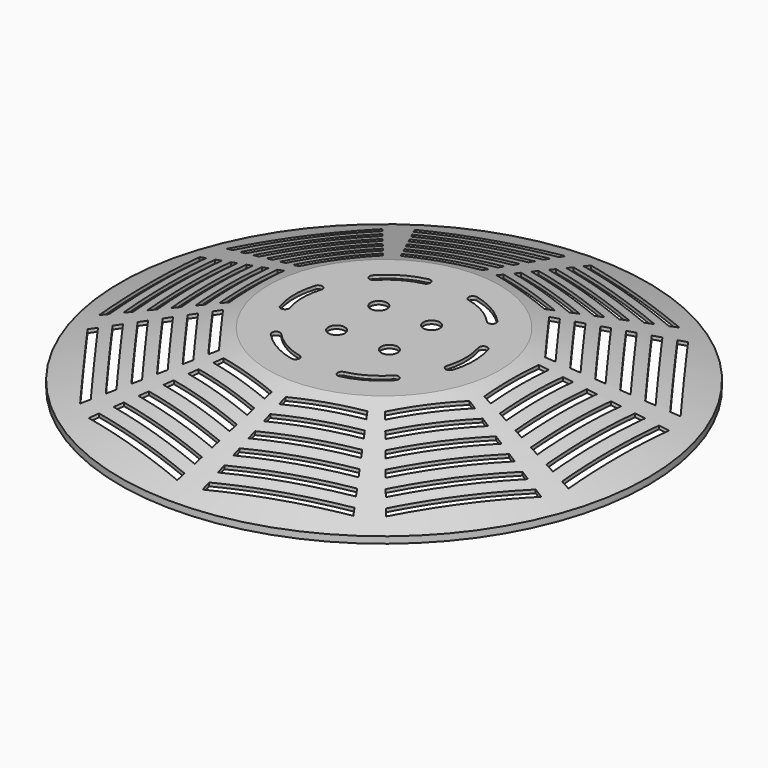
from build123d import *

# Parameters (mm, degrees)
F3_T      = -1.27
F4_DEPTH  = 20.321
F5_COUNT  = 6
F8_DEPTH  = 25.4
F9_COUNT  = 10
F11_R     = 3.175
F12_DEPTH = 20.321


with BuildPart() as f1:
    # F0 (on Front) → F1 (revolve)
    with BuildSketch(Plane.XZ):
        Polygon((0, 20.32), (0, 0), (101.6, 0), (101.6, 2.54), (44.45, 20.32), align=None)
    revolve(axis=Axis((0, 0, 10.16), (0, 0, 1)))

    # F3
    f3_openings = [f1.faces().sort_by_distance(p)[0] for p in [
        (0, 0, 0),
    ]]
    offset(amount=F3_T, openings=f3_openings)


with BuildPart() as f4:
    # F2 (on face) → F4 (new body, through all)
    with BuildSketch(Plane.XY.offset(20.32)):
        with BuildLine():
            ThreePointArc((-30.233871, -7.530353), (-31.375804, 0), (-30.233871, 7.530353))
            ThreePointArc((-30.233871, 7.530353), (-31.279353, 9.517129), (-33.266129, 8.471647))
            ThreePointArc((-33.266129, 8.471647), (-34.550804, 0), (-33.266129, -8.471647))
            ThreePointArc((-33.266129, -8.471647), (-31.279353, -9.517129), (-30.233871, -7.530353))
        make_face()
    extrude(amount=-F4_DEPTH)


with BuildPart() as f5_1:
    # F5: instance of F4
    add(f4.part.rotate(Axis((0, 0, 2.54), (0, 0, 1)), 1 * 360 / F5_COUNT))


with BuildPart() as f5_2:
    # F5: instance of F4
    add(f4.part.rotate(Axis((0, 0, 2.54), (0, 0, 1)), 2 * 360 / F5_COUNT))


with BuildPart() as f5_3:
    # F5: instance of F4
    add(f4.part.rotate(Axis((0, 0, 2.54), (0, 0, 1)), 3 * 360 / F5_COUNT))


with BuildPart() as f5_4:
    # F5: instance of F4
    add(f4.part.rotate(Axis((0, 0, 2.54), (0, 0, 1)), 4 * 360 / F5_COUNT))


with BuildPart() as f5_5:
    # F5: instance of F4
    add(f4.part.rotate(Axis((0, 0, 2.54), (0, 0, 1)), 5 * 360 / F5_COUNT))


with BuildPart() as f1_1:
    add(f1.part)

    # F6: cut F4, F5_1, F5_2, F5_3, F5_4, F5_5
    add(f4.part, mode=Mode.SUBTRACT)
    add(f5_1.part, mode=Mode.SUBTRACT)
    add(f5_2.part, mode=Mode.SUBTRACT)
    add(f5_3.part, mode=Mode.SUBTRACT)
    add(f5_4.part, mode=Mode.SUBTRACT)
    add(f5_5.part, mode=Mode.SUBTRACT)


with BuildPart() as f8:
    # F7 (on face) → F8 (new body)
    with BuildSketch(Plane.XY.offset(20.32)):
        Polygon((-79.549032, -21.315099), (-79.549032, 21.315099), (-82.724032, 22.165838), (-82.724032, -22.165838), align=None)
        Polygon((-71.929032, -19.273326), (-71.929032, 19.273326), (-75.104032, 20.124065), (-75.104032, -20.124065), align=None)
        Polygon((-64.309032, -17.231553), (-64.309032, 17.231553), (-67.484032, 18.082292), (-67.484032, -18.082292), align=None)
        Polygon((-56.689032, -15.18978), (-56.689032, 15.18978), (-59.864032, 16.040519), (-59.864032, -16.040519), align=None)
        Polygon((-49.069032, -13.148007), (-49.069032, 13.148007), (-52.244032, 13.998746), (-52.244032, -13.998746), align=None)
        Polygon((-87.169032, -23.356872), (-87.169032, 23.356872), (-90.344032, 24.20761), (-90.344032, -24.20761), align=None)
    extrude(amount=-F8_DEPTH)


with BuildPart() as f9_1:
    # F9: instance of F8
    add(f8.part.rotate(Axis((0, 0, 2.54), (0, 0, 1)), 1 * 360 / F9_COUNT))


with BuildPart() as f9_2:
    # F9: instance of F8
    add(f8.part.rotate(Axis((0, 0, 2.54), (0, 0, 1)), 2 * 360 / F9_COUNT))


with BuildPart() as f9_3:
    # F9: instance of F8
    add(f8.part.rotate(Axis((0, 0, 2.54), (0, 0, 1)), 3 * 360 / F9_COUNT))


with BuildPart() as f9_4:
    # F9: instance of F8
    add(f8.part.rotate(Axis((0, 0, 2.54), (0, 0, 1)), 4 * 360 / F9_COUNT))


with BuildPart() as f9_5:
    # F9: instance of F8
    add(f8.part.rotate(Axis((0, 0, 2.54), (0, 0, 1)), 5 * 360 / F9_COUNT))


with BuildPart() as f9_6:
    # F9: instance of F8
    add(f8.part.rotate(Axis((0, 0, 2.54), (0, 0, 1)), 6 * 360 / F9_COUNT))


with BuildPart() as f9_7:
    # F9: instance of F8
    add(f8.part.rotate(Axis((0, 0, 2.54), (0, 0, 1)), 7 * 360 / F9_COUNT))


with BuildPart() as f9_8:
    # F9: instance of F8
    add(f8.part.rotate(Axis((0, 0, 2.54), (0, 0, 1)), 8 * 360 / F9_COUNT))


with BuildPart() as f9_9:
    # F9: instance of F8
    add(f8.part.rotate(Axis((0, 0, 2.54), (0, 0, 1)), 9 * 360 / F9_COUNT))


with BuildPart() as f1_2:
    add(f1_1.part)

    # F10: cut F8, F9_1, F9_2, F9_3, F9_4, F9_5, F9_6, F9_7, F9_8, F9_9
    add(f8.part, mode=Mode.SUBTRACT)
    add(f9_1.part, mode=Mode.SUBTRACT)
    add(f9_2.part, mode=Mode.SUBTRACT)
    add(f9_3.part, mode=Mode.SUBTRACT)
    add(f9_4.part, mode=Mode.SUBTRACT)
    add(f9_5.part, mode=Mode.SUBTRACT)
    add(f9_6.part, mode=Mode.SUBTRACT)
    add(f9_7.part, mode=Mode.SUBTRACT)
    add(f9_8.part, mode=Mode.SUBTRACT)
    add(f9_9.part, mode=Mode.SUBTRACT)

    # F11 (on face) → F12 (cut, through all)
    with BuildSketch(Plane.XY.offset(20.32)):
        with Locations((-10.16, -10.16)):
            Circle(F11_R)
        with Locations((-10.16, 10.16)):
            Circle(F11_R)
        with Locations((10.16, -10.16)):
            Circle(F11_R)
        with Locations((10.16, 10.16)):
            Circle(F11_R)
    extrude(amount=-F12_DEPTH, mode=Mode.SUBTRACT)


solid = f1_2.part
